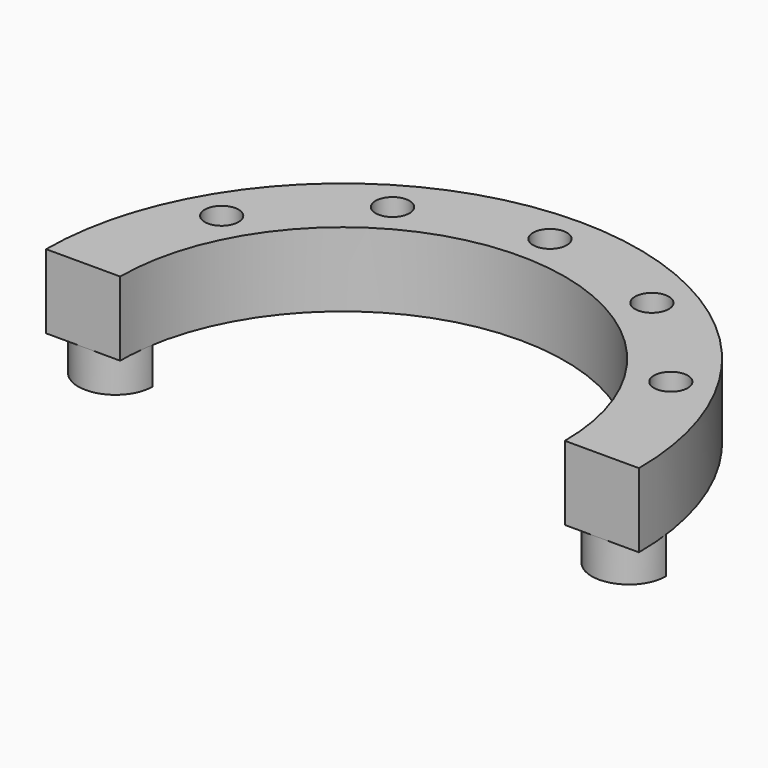
from build123d import *

# Parameters (mm, degrees)
F1_DEPTH       = 12.7
F3_DEPTH       = 6.35
F5_D           = 5.7912
F5_CSINK_D     = 11.43
F5_CSINK_ANGLE = 82


with BuildPart() as f1:
    # F0 (on Top) → F1 (new body)
    with BuildSketch(Plane.XY):
        with BuildLine():
            ThreePointArc((50.8, 0), (0, 50.8), (-50.8, 0))
            Line((-50.8, 0), (-38.1, 0))
            ThreePointArc((-38.1, 0), (0, 38.1), (38.1, 0))
            Line((38.1, 0), (50.8, 0))
        make_face()
    extrude(amount=F1_DEPTH)

    # F2 (on Top) → F3 (join)
    with BuildSketch(Plane.XY):
        with BuildLine():
            Line((43.9940905122, 6.35), (37.6440905122, 6.35))
            ThreePointArc((37.6440905122, 6.35), (43.9940905122, 0), (50.3440905122, 6.35))
            Line((50.3440905122, 6.35), (43.9940905122, 6.35))
        make_face()
        with BuildLine():
            ThreePointArc((-50.3440905122, 6.35), (-43.9940905122, 0), (-37.6440905122, 6.35))
            Line((-37.6440905122, 6.35), (-43.9940905122, 6.35))
            Line((-43.9940905122, 6.35), (-50.3440905122, 6.35))
        make_face()
    extrude(amount=-F3_DEPTH)

    # F5 (through all)
    with Locations(Plane(origin=(0, 0, 0), x_dir=(1, 0, 0), z_dir=(0, 0, -1))):
        with Locations((-38.4948291982, -22.225), (-22.225, -38.4948291982), (0, -44.45), (22.225, -38.4948291982), (38.4948291982, -22.225)):
            CounterSinkHole(F5_D / 2, F5_CSINK_D / 2, counter_sink_angle=F5_CSINK_ANGLE)


solid = f1.part
